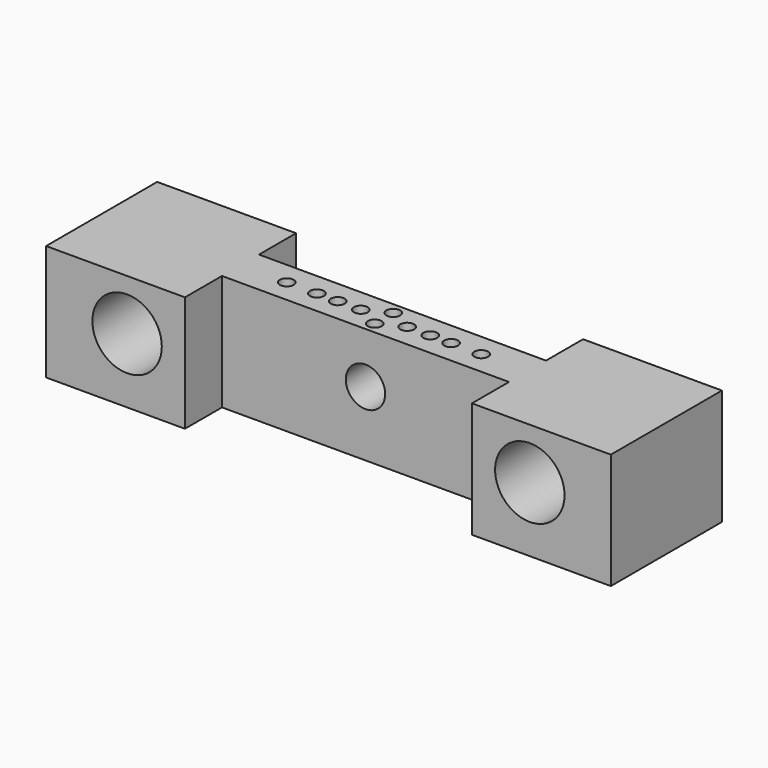
from build123d import *

# Parameters (mm, degrees)
F0_W     = 122
F0_H     = 30
F1_DEPTH = 25
F2_R     = 7.5
F2_R_2   = 4.25
F3_DEPTH = 30
F4_W     = 62
F4_H     = 10
F5_DEPTH = 30
F6_R     = 1.5
F7_DEPTH = 7.5


with BuildPart() as f1:
    # F0 (on Top) → F1 (new body)
    with BuildSketch(Plane.XY):
        with Locations((6.373649, -27.108692)):
            Rectangle(F0_W, F0_H)
    extrude(amount=F1_DEPTH)

    # F2 (on face) → F3 (cut, through all)
    with BuildSketch(Plane.XZ.offset(42.108692)):
        with Locations((-37.126351, 14)):
            Circle(F2_R)
        with Locations((49.873649, 14)):
            Circle(F2_R)
        with Locations((6.373649, 14)):
            Circle(F2_R_2)
    extrude(amount=-F3_DEPTH, mode=Mode.SUBTRACT)

    # F4 (on face) → F5 (cut)
    with BuildSketch(Plane.XY.offset(25)):
        with Locations((6.373649, -17.108692)):
            Rectangle(F4_W, F4_H)
        with Locations((6.373649, -37.108692)):
            Rectangle(F4_W, F4_H)
    extrude(amount=-F5_DEPTH, mode=Mode.SUBTRACT)

    # F6 (on face) → F7 (cut)
    with BuildSketch(Plane.XY.offset(25)):
        with Locations((6.373649, -29.608692)):
            Circle(F6_R)
        with Locations((6.373649, -24.608692)):
            Circle(F6_R)
        with Locations((11.373649, -27.108692)):
            Circle(F6_R)
        with Locations((16.373649, -27.108692)):
            Circle(F6_R)
        with Locations((20.873649, -27.108692)):
            Circle(F6_R)
        with Locations((27.373649, -27.108692)):
            Circle(F6_R)
        with Locations((1.373649, -27.108692)):
            Circle(F6_R)
        with Locations((-3.626351, -27.108692)):
            Circle(F6_R)
        with Locations((-8.126351, -27.108692)):
            Circle(F6_R)
        with Locations((-14.626351, -27.108692)):
            Circle(F6_R)
    extrude(amount=-F7_DEPTH, mode=Mode.SUBTRACT)


solid = f1.part
